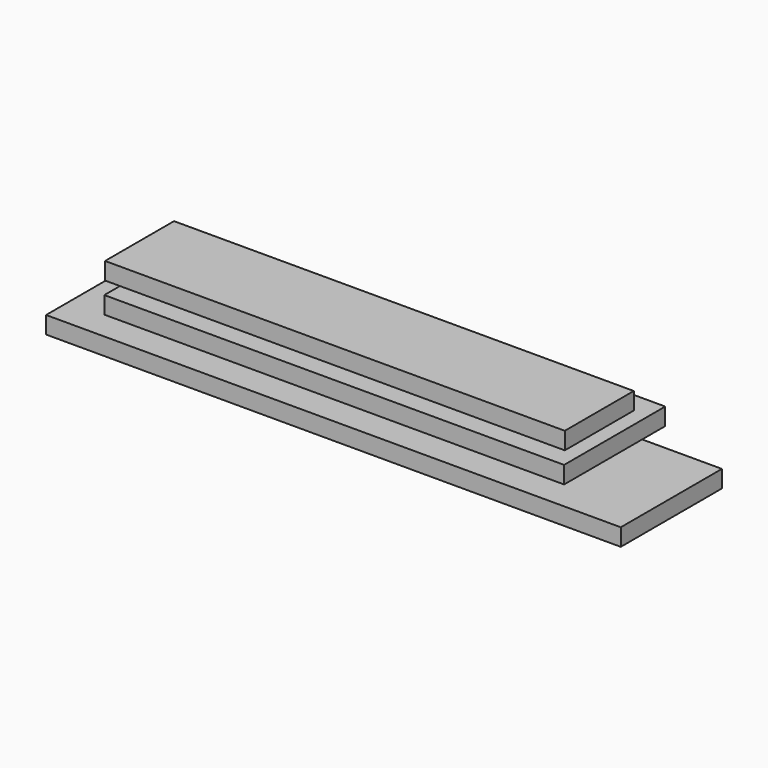
from build123d import *

# Parameters (mm, degrees)
F0_W     = 95.25
F0_H     = 19.05
F1_DEPTH = 254
F2_W     = 139.7
F2_H     = 19.05
F3_DEPTH = 254
F4_W     = 139.7
F4_H     = 19.05
F5_DEPTH = 317.5


with BuildPart() as f1:
    # F0 (on Right) → F1 (new body, symmetric)
    with BuildSketch(Plane.YZ):
        with Locations((-22.720186, 61.763949)):
            Rectangle(F0_W, F0_H)
    extrude(amount=F1_DEPTH, both=True)


with BuildPart() as f3:
    # F2 (on Right) → F3 (new body, symmetric)
    with BuildSketch(Plane.YZ):
        with Locations((-1.473901, 28.976972)):
            Rectangle(F2_W, F2_H)
    extrude(amount=F3_DEPTH, both=True)


with BuildPart() as f5:
    # F4 (on Right) → F5 (new body, symmetric)
    with BuildSketch(Plane.YZ):
        with Locations((-2.5633, -10.602863)):
            Rectangle(F4_W, F4_H)
    extrude(amount=F5_DEPTH, both=True)


solid = Compound([f1.part, f3.part, f5.part])
